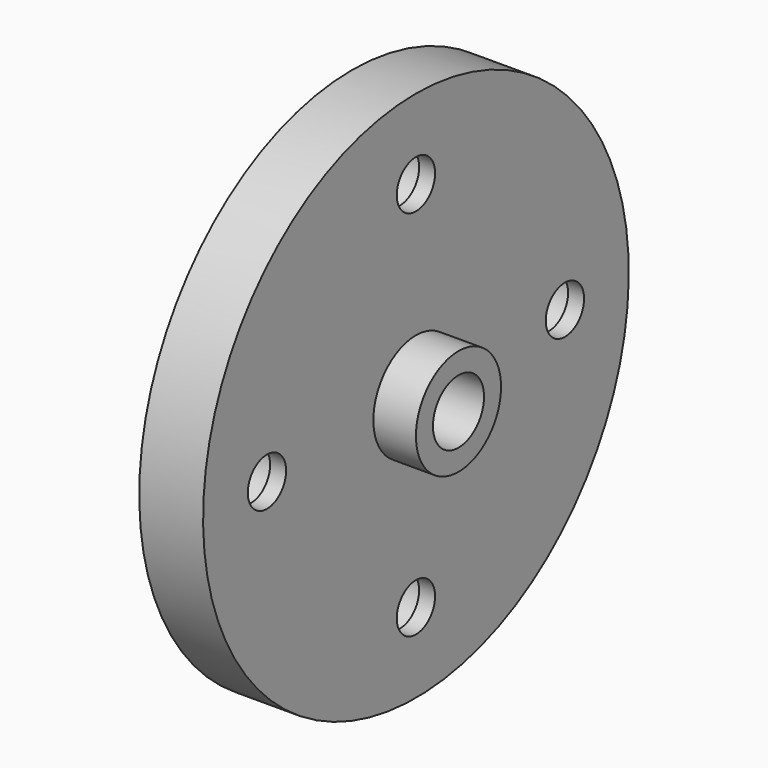
from build123d import *

# Parameters (mm, degrees)
F2_R     = 6.5
F2_R_2   = 4.5
F3_DEPTH = 9
F4_DEPTH = 12
F5_COUNT = 4
F5_ANGLE = 270
F6_SIZE  = 5


with BuildPart() as f1:
    # F0 (on Front) → F1 (revolve)
    with BuildSketch(Plane.XZ):
        Polygon((0, 50), (0, 6), (20, 6), (20, 10), (12, 10), (12, 50), align=None)
    revolve(axis=Axis((48.1764731588, 0, 0), (1, 0, 0)))

    # F2 (on face) → F3 (cut)
    with BuildSketch(Plane(origin=(0, 0, 0), x_dir=(0, -1, 0), z_dir=(-1, 0, 0))):
        with Locations((0, 35)):
            Circle(F2_R)
        with Locations((0, 35)):
            Circle(F2_R_2, mode=Mode.SUBTRACT)
    f3 = extrude(amount=-F3_DEPTH, mode=Mode.SUBTRACT)

    # F2 (on face) → F4 (cut)
    with BuildSketch(Plane(origin=(0, 0, 0), x_dir=(0, -1, 0), z_dir=(-1, 0, 0))):
        with Locations((0, 35)):
            Circle(F2_R_2)
    f4 = extrude(amount=-F4_DEPTH, mode=Mode.SUBTRACT)

    # F5: F3, F4 ×4 about axis
    f5_axis = Axis((48.1764731588, 0, 0), (1, 0, 0))
    for i in range(1, F5_COUNT):
        add(f3.rotate(f5_axis, i * F5_ANGLE / (F5_COUNT - 1)), mode=Mode.SUBTRACT)
        add(f4.rotate(f5_axis, i * F5_ANGLE / (F5_COUNT - 1)), mode=Mode.SUBTRACT)

    # F6
    f6_edges = [f1.edges().sort_by_distance(p)[0] for p in [
        (0, 0, -6),
    ]]
    chamfer(f6_edges, length=F6_SIZE)


solid = f1.part
